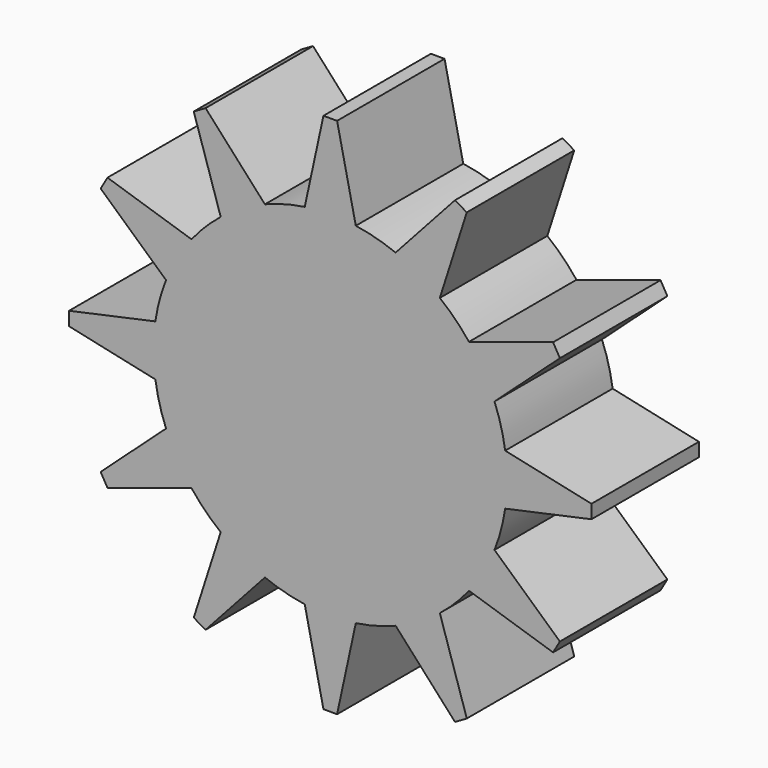
from build123d import *

# Parameters (mm, degrees)
F1_DEPTH = 18
F3_DEPTH = 9


with BuildPart() as f1:
    # F0 (on Front) → F1 (new body)
    with BuildSketch(Plane.XZ):
        with BuildLine():
            Line((0, 35), (-0.915, 35))
            Line((-0.915, 35), (-3.42, 23.437145))
            ThreePointArc((-3.42, 23.437145), (0, 23.685357), (3.42, 23.437145))
            Line((3.42, 23.437145), (0.915, 35))
            Line((0.915, 35), (0, 35))
        make_face()
        with BuildLine():
            ThreePointArc((3.42, 23.437145), (0, 23.685357), (-3.42, 23.437145))
            ThreePointArc((-3.42, 23.437145), (-6.130222, 22.878298), (-8.756765, 22.007163))
            ThreePointArc((-8.756765, 22.007163), (-11.842679, 20.512121), (-14.680379, 18.587163))
            ThreePointArc((-14.680379, 18.587163), (-16.748077, 16.748077), (-18.587163, 14.680379))
            ThreePointArc((-18.587163, 14.680379), (-20.512121, 11.842679), (-22.007163, 8.756765))
            ThreePointArc((-22.007163, 8.756765), (-22.878298, 6.130222), (-23.437145, 3.42))
            ThreePointArc((-23.437145, 3.42), (-23.685357, 0), (-23.437145, -3.42))
            ThreePointArc((-23.437145, -3.42), (-22.878298, -6.130222), (-22.007163, -8.756765))
            ThreePointArc((-22.007163, -8.756765), (-20.512121, -11.842679), (-18.587163, -14.680379))
            ThreePointArc((-18.587163, -14.680379), (-16.748077, -16.748077), (-14.680379, -18.587163))
            ThreePointArc((-14.680379, -18.587163), (-11.842679, -20.512121), (-8.756765, -22.007163))
            ThreePointArc((-8.756765, -22.007163), (-6.130222, -22.878298), (-3.42, -23.437145))
            ThreePointArc((-3.42, -23.437145), (0, -23.685357), (3.42, -23.437145))
            ThreePointArc((3.42, -23.437145), (6.130222, -22.878298), (8.756765, -22.007163))
            ThreePointArc((8.756765, -22.007163), (11.842679, -20.512121), (14.680379, -18.587163))
            ThreePointArc((14.680379, -18.587163), (16.748077, -16.748077), (18.587163, -14.680379))
            ThreePointArc((18.587163, -14.680379), (20.512121, -11.842679), (22.007163, -8.756765))
            ThreePointArc((22.007163, -8.756765), (22.878298, -6.130222), (23.437145, -3.42))
            ThreePointArc((23.437145, -3.42), (23.623223, -1.714498), (23.685357, 0))
            ThreePointArc((23.685357, 0), (23.623223, 1.714498), (23.437145, 3.42))
            ThreePointArc((23.437145, 3.42), (22.878298, 6.130222), (22.007163, 8.756765))
            ThreePointArc((22.007163, 8.756765), (20.512121, 11.842679), (18.587163, 14.680379))
            ThreePointArc((18.587163, 14.680379), (16.748077, 16.748077), (14.680379, 18.587163))
            ThreePointArc((14.680379, 18.587163), (11.842679, 20.512121), (8.756765, 22.007163))
            ThreePointArc((8.756765, 22.007163), (6.130222, 22.878298), (3.42, 23.437145))
        make_face()
        with BuildLine():
            ThreePointArc((-14.680379, 18.587163), (-11.842679, 20.512121), (-8.756765, 22.007163))
            Line((-8.756765, 22.007163), (-16.707587, 30.768389))
            Line((-16.707587, 30.768389), (-17.5, 30.310889))
            Line((-17.5, 30.310889), (-18.292413, 29.853389))
            Line((-18.292413, 29.853389), (-14.680379, 18.587163))
        make_face()
        with BuildLine():
            Line((16.707587, 30.768389), (8.756765, 22.007163))
            ThreePointArc((8.756765, 22.007163), (11.842679, 20.512121), (14.680379, 18.587163))
            Line((14.680379, 18.587163), (18.292413, 29.853389))
            Line((18.292413, 29.853389), (17.5, 30.310889))
            Line((17.5, 30.310889), (16.707587, 30.768389))
        make_face()
        with BuildLine():
            ThreePointArc((-22.007163, 8.756765), (-20.512121, 11.842679), (-18.587163, 14.680379))
            Line((-18.587163, 14.680379), (-29.853389, 18.292413))
            Line((-29.853389, 18.292413), (-30.310889, 17.5))
            Line((-30.310889, 17.5), (-30.768389, 16.707587))
            Line((-30.768389, 16.707587), (-22.007163, 8.756765))
        make_face()
        with BuildLine():
            Line((29.853389, 18.292413), (18.587163, 14.680379))
            ThreePointArc((18.587163, 14.680379), (20.512121, 11.842679), (22.007163, 8.756765))
            Line((22.007163, 8.756765), (30.768389, 16.707587))
            Line((30.768389, 16.707587), (30.310889, 17.5))
            Line((30.310889, 17.5), (29.853389, 18.292413))
        make_face()
        with BuildLine():
            ThreePointArc((-23.437145, -3.42), (-23.685357, 0), (-23.437145, 3.42))
            Line((-23.437145, 3.42), (-35, 0.915))
            Line((-35, 0.915), (-35, 0))
            Line((-35, 0), (-35, -0.915))
            Line((-35, -0.915), (-23.437145, -3.42))
        make_face()
        with BuildLine():
            Line((35, 0.915), (23.437145, 3.42))
            ThreePointArc((23.437145, 3.42), (23.623223, 1.714498), (23.685357, 0))
            ThreePointArc((23.685357, 0), (23.623223, -1.714498), (23.437145, -3.42))
            Line((23.437145, -3.42), (35, -0.915))
            Line((35, -0.915), (35, 0))
            Line((35, 0), (35, 0.915))
        make_face()
        with BuildLine():
            ThreePointArc((-18.587163, -14.680379), (-20.512121, -11.842679), (-22.007163, -8.756765))
            Line((-22.007163, -8.756765), (-30.768389, -16.707587))
            Line((-30.768389, -16.707587), (-30.310889, -17.5))
            Line((-30.310889, -17.5), (-29.853389, -18.292413))
            Line((-29.853389, -18.292413), (-18.587163, -14.680379))
        make_face()
        with BuildLine():
            Line((30.768389, -16.707587), (22.007163, -8.756765))
            ThreePointArc((22.007163, -8.756765), (20.512121, -11.842679), (18.587163, -14.680379))
            Line((18.587163, -14.680379), (29.853389, -18.292413))
            Line((29.853389, -18.292413), (30.310889, -17.5))
            Line((30.310889, -17.5), (30.768389, -16.707587))
        make_face()
        with BuildLine():
            ThreePointArc((-8.756765, -22.007163), (-11.842679, -20.512121), (-14.680379, -18.587163))
            Line((-14.680379, -18.587163), (-18.292413, -29.853389))
            Line((-18.292413, -29.853389), (-17.5, -30.310889))
            Line((-17.5, -30.310889), (-16.707587, -30.768389))
            Line((-16.707587, -30.768389), (-8.756765, -22.007163))
        make_face()
        with BuildLine():
            Line((18.292413, -29.853389), (14.680379, -18.587163))
            ThreePointArc((14.680379, -18.587163), (11.842679, -20.512121), (8.756765, -22.007163))
            Line((8.756765, -22.007163), (16.707587, -30.768389))
            Line((16.707587, -30.768389), (17.5, -30.310889))
            Line((17.5, -30.310889), (18.292413, -29.853389))
        make_face()
        with BuildLine():
            ThreePointArc((3.42, -23.437145), (0, -23.685357), (-3.42, -23.437145))
            Line((-3.42, -23.437145), (-0.915, -35))
            Line((-0.915, -35), (0, -35))
            Line((0, -35), (0.915, -35))
            Line((0.915, -35), (3.42, -23.437145))
        make_face()
    extrude(amount=F1_DEPTH)

    # F2 (on face) → F3 (cut)
    with BuildSketch(Plane(origin=(0, 0, 0), x_dir=(-1, 0, 0), z_dir=(0, 1, 0))):
        with BuildLine():
            Line((-2, 2.236068), (-2, -2.236068))
            ThreePointArc((-2, -2.236068), (0, -3), (2, -2.236068))
            Line((2, -2.236068), (2, 2.236068))
            ThreePointArc((2, 2.236068), (0, 3), (-2, 2.236068))
        make_face()
    extrude(amount=-F3_DEPTH, mode=Mode.SUBTRACT)


solid = f1.part
